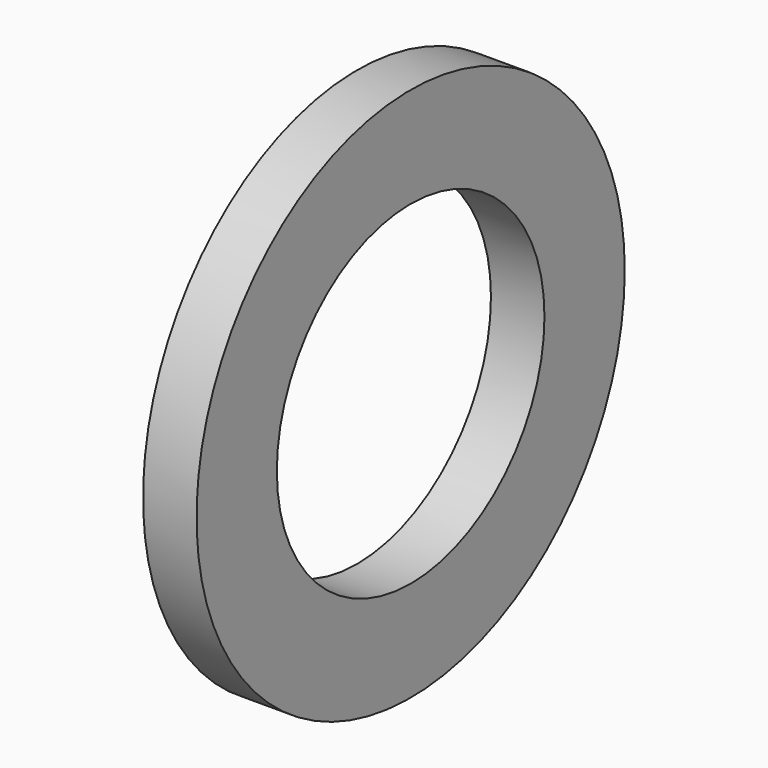
from build123d import *

# Parameters (mm, degrees)
F0_R     = 12.7
F1_DEPTH = 1.27
F2_R     = 7.9375
F3_DEPTH = 63.5


with BuildPart() as f1:
    # F0 (on Right) → F1 (new body, symmetric)
    with BuildSketch(Plane.YZ):
        Circle(F0_R)
    extrude(amount=F1_DEPTH, both=True)

    # F2 (on face) → F3 (cut, symmetric)
    with BuildSketch(Plane.YZ.offset(1.27)):
        Circle(F2_R)
    extrude(amount=F3_DEPTH, both=True, mode=Mode.SUBTRACT)


solid = f1.part
